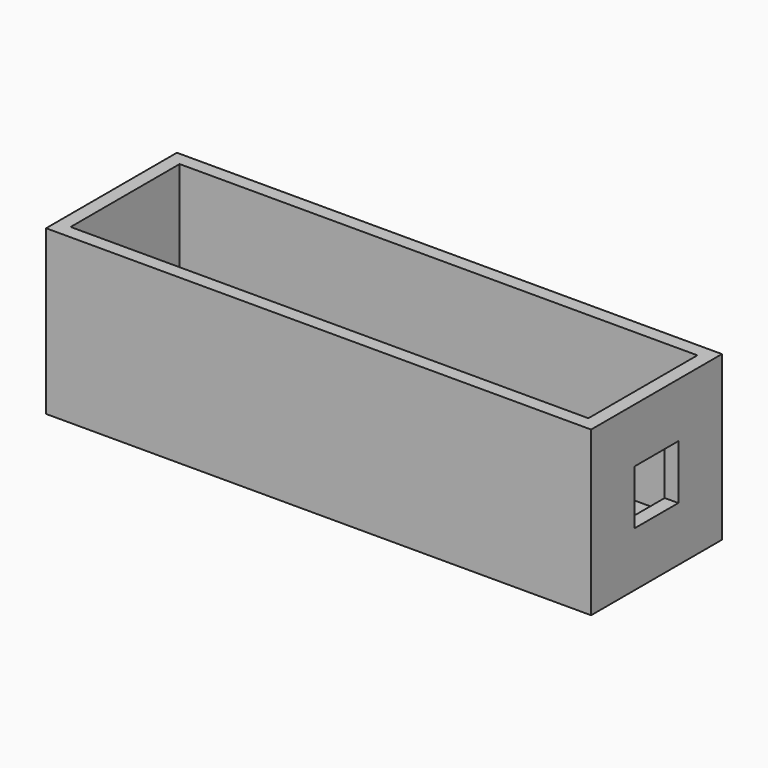
from build123d import *

# Parameters (mm, degrees)
F0_W     = 10000
F0_H     = 3000
F1_DEPTH = 280
F2_W     = 10000
F2_H     = 3000
F2_W_2   = 9500
F2_H_2   = 2500
F3_DEPTH = 3000
F4_W     = 1000
F4_H     = 1000
F5_DEPTH = 1000


with BuildPart() as f1:
    # F0 (on Top) → F1 (new body)
    with BuildSketch(Plane.XY):
        Rectangle(F0_W, F0_H)
    extrude(amount=F1_DEPTH)

    # F2 (on Top) → F3 (join)
    with BuildSketch(Plane.XY):
        Rectangle(F2_W, F2_H)
        Rectangle(F2_W_2, F2_H_2, mode=Mode.SUBTRACT)
    extrude(amount=F3_DEPTH)

    # F4 (on face) → F5 (cut)
    with BuildSketch(Plane.YZ.offset(5000)):
        with Locations((0, 1500)):
            Rectangle(F4_W, F4_H)
    extrude(amount=-F5_DEPTH, mode=Mode.SUBTRACT)


solid = f1.part
